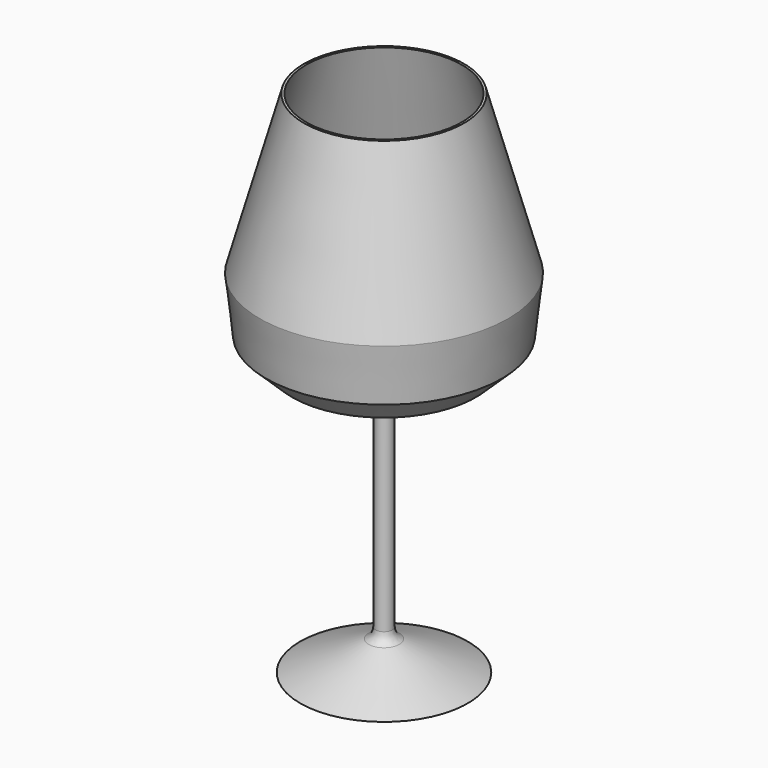
from build123d import *

# Parameters (mm, degrees)
F2_R = 5
F3_T = -1


with BuildPart() as f1:
    # F0 (on Front) → F1 (revolve)
    with BuildSketch(Plane.XZ):
        Polygon((0, 120), (-35, 120), (-54.2100556195, 51.1340316432), (-51.4871776104, 27.2081736475), (-40.1005893946, 16.3166560233), (-23.8004934928, 11.769769421), (-3.6637331643, 1.811781532), (0, 0), align=None)
        Polygon((0, -102.4070009589), (0, 0), (-3.6637331643, 1.811781532), (-3.6637331643, -88.188218468), (-36.5668833256, -102.4070009589), align=None)
    revolve(axis=Axis((0, 0, 8.7964995205), (0, 0, -1)))

    # F2
    f2_edges = [f1.edges().sort_by_distance(p)[0] for p in [
        (3.663733, 0, 1.811782),
        (3.663733, 0, -88.188218),
    ]]
    fillet(f2_edges, radius=F2_R)

    # F3
    f3_openings = [f1.faces().sort_by_distance(p)[0] for p in [
        (0, 0, 120),
    ]]
    offset(amount=F3_T, openings=f3_openings, kind=Kind.INTERSECTION)


solid = f1.part
